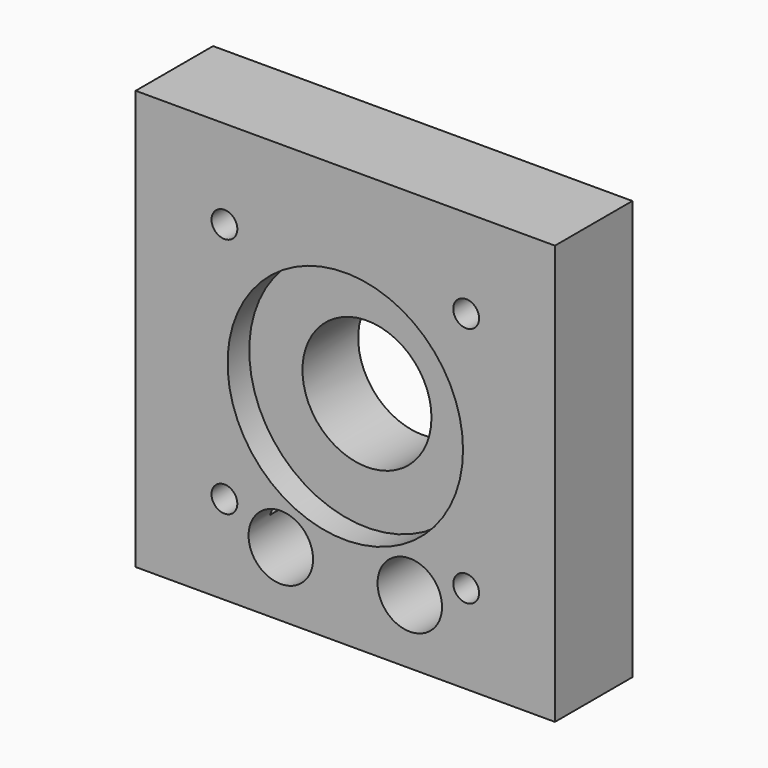
from build123d import *

# Parameters (mm, degrees)
F0_W      = 65
F0_H      = 65
F1_DEPTH  = 15
F2_R      = 18.25
F3_DEPTH  = 4.2
F4_R      = 10
F5_DEPTH  = 25
F6_R      = 5
F7_DEPTH  = 10
F8_R      = 2
F9_DEPTH  = 25
F12_R     = 5
F13_DEPTH = 11
F11_R     = 2
F14_DEPTH = 25
F15_R     = 2
F16_DEPTH = 7


with BuildPart() as f1:
    # F0 (on Front) → F1 (new body)
    with BuildSketch(Plane.XZ):
        Rectangle(F0_W, F0_H)
    extrude(amount=F1_DEPTH)

    # F2 (on face) → F3 (cut)
    with BuildSketch(Plane.XZ.offset(15)):
        Circle(F2_R)
    extrude(amount=-F3_DEPTH, mode=Mode.SUBTRACT)

    # F4 (on face) → F5 (cut)
    with BuildSketch(Plane.XZ.offset(15)):
        Circle(F4_R)
    extrude(amount=-F5_DEPTH, mode=Mode.SUBTRACT)

    # F6 (on face) → F7 (cut)
    with BuildSketch(Plane.XZ.offset(15)):
        with BuildLine():
            ThreePointArc((15, -22.5), (10, -17.5), (5, -22.5))
            ThreePointArc((5, -22.5), (10, -27.5), (15, -22.5))
        make_face()
        with Locations((-10, -22.5)):
            Circle(F6_R)
    extrude(amount=-F7_DEPTH, mode=Mode.SUBTRACT)

    # F8 (on face) → F9 (cut)
    with BuildSketch(Plane.XZ.offset(15)):
        with Locations((-10, -22.5)):
            Circle(F8_R)
        with Locations((10, -22.5)):
            Circle(F8_R)
    extrude(amount=-F9_DEPTH, mode=Mode.SUBTRACT)

    # F12 (on face) → F13 (cut)
    with BuildSketch(Plane(origin=(0, 0, 0), x_dir=(-1, 0, 0), z_dir=(0, 1, 0))):
        with Locations((18.616408, 18.859463)):
            Circle(F12_R)
        with Locations((18.995447, -18.477634)):
            Circle(F12_R)
        with Locations((-18.859462, -18.616409)):
            Circle(F12_R)
        with Locations((-18.75598, 18.720663)):
            Circle(F12_R)
    extrude(amount=-F13_DEPTH, mode=Mode.SUBTRACT)

    # F11 (on face) → F14 (cut)
    with BuildSketch(Plane.XZ.offset(15)):
        with Locations((-18.73833, 18.73833)):
            Circle(F11_R)
        with Locations((-18.73833, -18.73833)):
            Circle(F11_R)
        with Locations((18.73833, 18.73833)):
            Circle(F11_R)
        with Locations((18.73833, -18.73833)):
            Circle(F11_R)
    extrude(amount=-F14_DEPTH, mode=Mode.SUBTRACT)

    # F15 (on face) → F16 (cut)
    with BuildSketch(Plane(origin=(0, 0, -32.5), x_dir=(1, 0, 0), z_dir=(0, 0, -1))):
        with BuildLine():
            ThreePointArc((8, 2.5), (8.585786, 1.085786), (10, 0.5))
            Line((10, 0.5), (10, 2.5))
            Line((10, 2.5), (8, 2.5))
        make_face()
        with Locations((-10, 2.5)):
            Circle(F15_R)
        with BuildLine():
            Line((10, 2.5), (10, 0.5))
            ThreePointArc((10, 0.5), (11.414214, 1.085786), (12, 2.5))
            ThreePointArc((12, 2.5), (10, 4.5), (8, 2.5))
            Line((8, 2.5), (10, 2.5))
        make_face()
    extrude(amount=-F16_DEPTH, mode=Mode.SUBTRACT)


solid = f1.part
